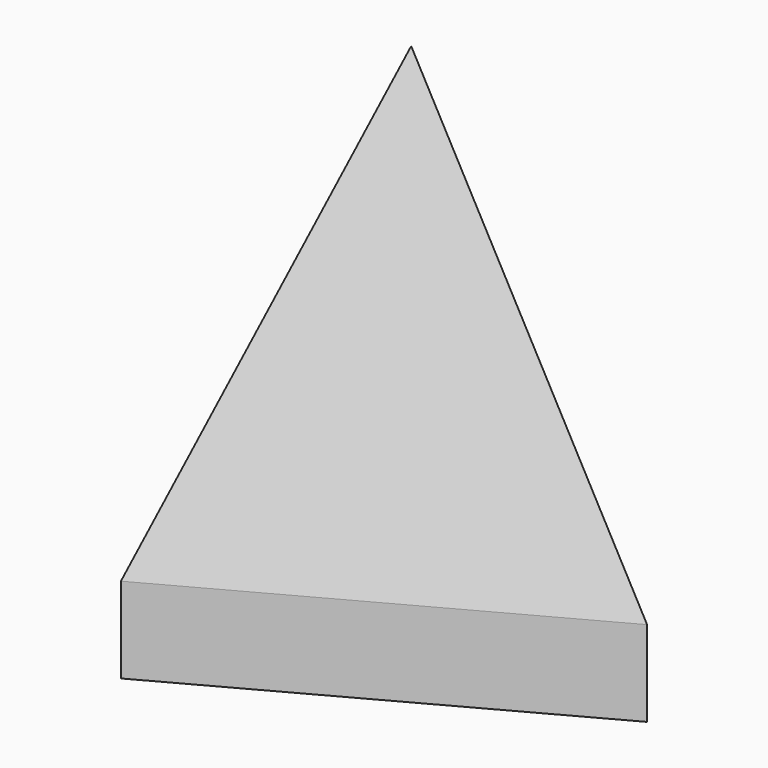
from build123d import *

# Parameters (mm, degrees)
F1_DEPTH = 25


with BuildPart() as f1:
    # F0 (on Top) → F1 (new body)
    with BuildSketch(Plane.XY):
        Polygon((70.286689, -1.822083), (-33.565374, 61.7811), (-36.721315, -59.959017), align=None)
    extrude(amount=F1_DEPTH)

    # F1_face (on face) → F4 section 0
    with BuildSketch(Plane.XY.offset(25), mode=Mode.PRIVATE) as f4_s0:
        Polygon((-36.721315, -59.959017), (70.286689, -1.822083), (-33.565374, 61.7811), align=None)
    loft([f4_s0.sketch, Vertex(0, 0, 150)])


solid = f1.part
